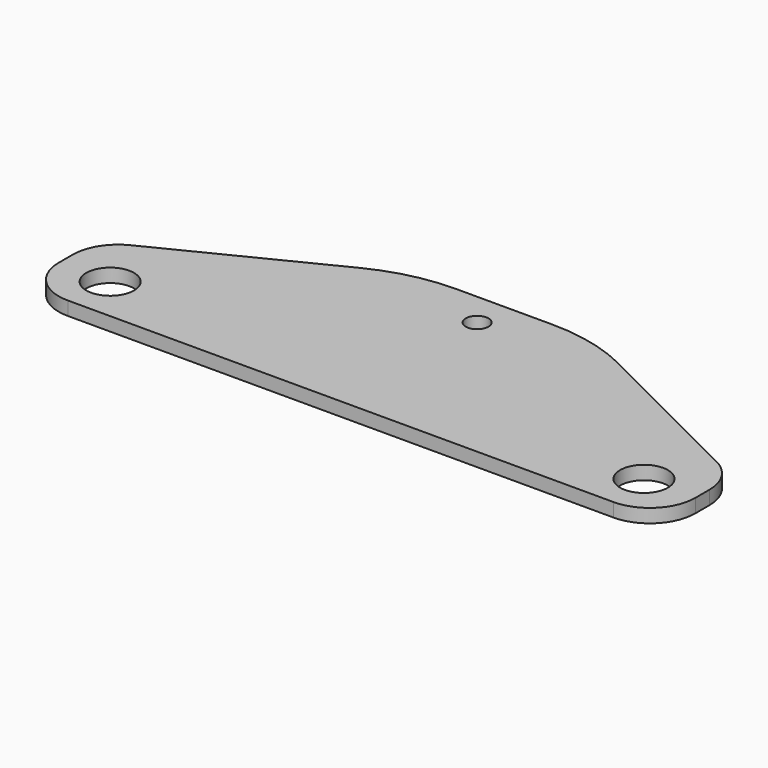
from build123d import *

# Parameters (mm, degrees)
F0_W     = 177.8
F0_H     = 25.4
F0_R     = 6.6675
F0_R_2   = 3.175
F1_DEPTH = 3.81
F2_R     = 50.8
F3_R     = 12.7


with BuildPart() as f1:
    # F0 (on Top) → F1 (new body)
    with BuildSketch(Plane.XY):
        with Locations((88.9, 12.7)):
            Rectangle(F0_W, F0_H)
        with Locations((14.351, 12.7)):
            Circle(F0_R, mode=Mode.SUBTRACT)
        with Locations((163.449, 12.7)):
            Circle(F0_R, mode=Mode.SUBTRACT)
        Polygon((63.5, 57.15), (0, 25.4), (177.8, 25.4), (114.3, 57.15), align=None)
        with Locations((88.9, 47.625)):
            Circle(F0_R_2, mode=Mode.SUBTRACT)
    extrude(amount=F1_DEPTH)

    # F2
    f2_edges = [f1.edges().sort_by_distance(p)[0] for p in [
        (63.5, 57.15, 1.905),
        (114.3, 57.15, 1.905),
    ]]
    fillet(f2_edges, radius=F2_R)

    # F3
    f3_edges = [f1.edges().sort_by_distance(p)[0] for p in [
        (0, 25.4, 1.905),
        (0, 0, 1.905),
        (177.8, 0, 1.905),
        (177.8, 25.4, 1.905),
    ]]
    fillet(f3_edges, radius=F3_R)


solid = f1.part
